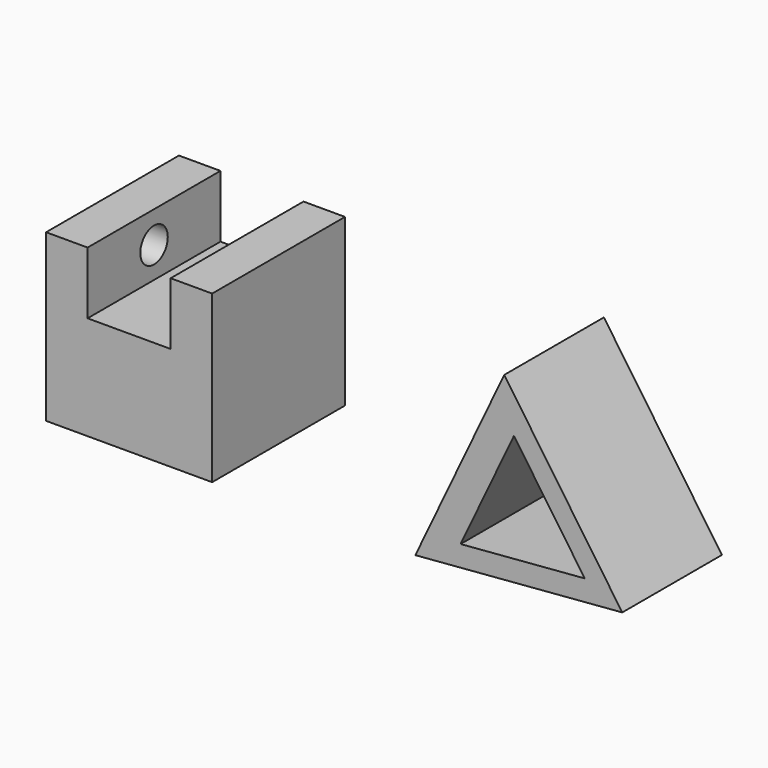
from build123d import *

# Parameters (mm, degrees)
F0_W     = 101.6
F0_H     = 101.6
F1_DEPTH = 101.6
F3_DEPTH = 130.81
F4_R     = 10.513247
F5_DEPTH = 25.4
F7_DEPTH = 76.2
F9_DEPTH = 76.2


with BuildPart() as f1:
    # F0 (on Front) → F1 (new body)
    with BuildSketch(Plane.XZ):
        with Locations((-45.86832, 66.594591)):
            Rectangle(F0_W, F0_H)
    extrude(amount=F1_DEPTH)

    # F2 (on face) → F3 (cut)
    with BuildSketch(Plane.XZ.offset(101.6)):
        Polygon((-71.26832, 117.394591), (-71.26832, 101.119451), (-71.26832, 79.294591), (-20.46832, 79.294591), (-20.46832, 101.119451), (-20.46832, 117.394591), align=None)
    extrude(amount=-F3_DEPTH, mode=Mode.SUBTRACT)

    # F4 (on face) → F5 (cut)
    with BuildSketch(Plane.YZ.offset(-71.26832)):
        with Locations((-50.8, 98.114714)):
            Circle(F4_R)
    extrude(amount=-F5_DEPTH, mode=Mode.SUBTRACT)


with BuildPart() as f7:
    # F6 (on Front) → F7 (new body)
    with BuildSketch(Plane.XZ):
        Polygon((235.521925, 10.304951), (163.306961, 114.775037), (108.940695, 0), align=None)
    extrude(amount=F7_DEPTH)

    # F8 (on face) → F9 (cut)
    with BuildSketch(Plane(origin=(0, 0, 0), x_dir=(-1, 0, 0), z_dir=(0, 1, 0))):
        Polygon((-136.61818, 14.995234), (-169.237939, 83.860256), (-212.566918, 21.178204), align=None)
    extrude(amount=-F9_DEPTH, mode=Mode.SUBTRACT)


solid = Compound([f1.part, f7.part])
